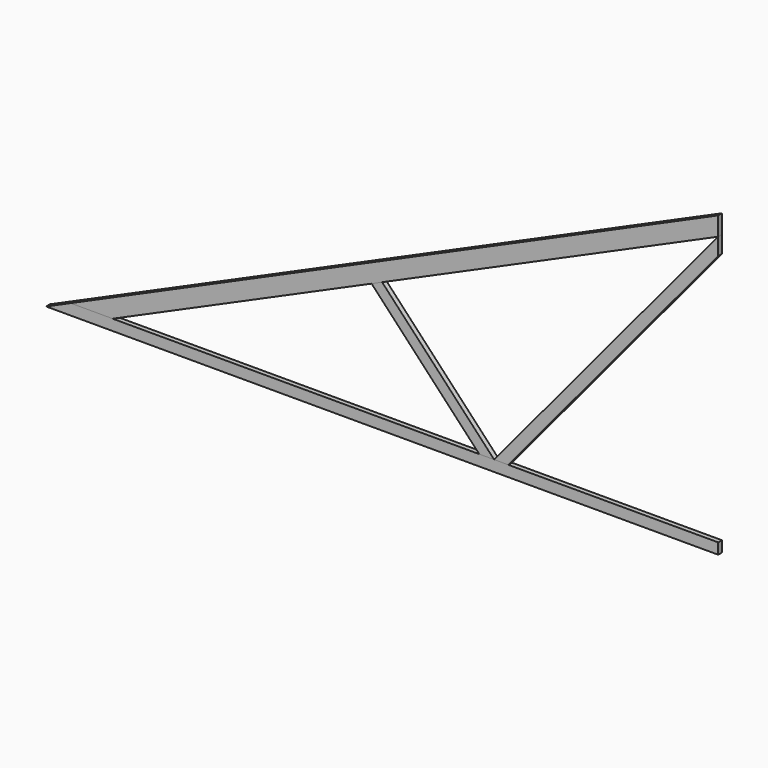
from build123d import *

# Parameters (mm, degrees)
F1_DEPTH = 38.1
F2_DEPTH = 38.1
F3_DEPTH = 38.1
F4_DEPTH = 38.1


with BuildPart() as f1:
    # F0 (on Front) → F1 (new body)
    with BuildSketch(Plane.XZ):
        Polygon((0, 0), (-5286.375, -2349.5), (-4942.403641, -2349.5), (-2829.185953, -1410.292138), (-2743.2, -1372.076159), (0, -152.876159), align=None)
    extrude(amount=F1_DEPTH)


with BuildPart() as f2:
    # F0 (on Front) → F2 (new body, through all)
    with BuildSketch(Plane.XZ):
        Polygon((-1950.537783, -2349.5), (-1828.8, -2349.5), (-2743.2, -1372.076159), (-2829.185953, -1410.292138), (-2808.119944, -1432.810095), align=None)
    extrude(amount=F2_DEPTH)


with BuildPart() as f3:
    # F0 (on Front) → F3 (new body, through all)
    with BuildSketch(Plane.XZ):
        Polygon((-1828.8, -2349.5), (-1713.122682, -2349.5), (0, -291.819486), (0, -152.876159), align=None)
    extrude(amount=F3_DEPTH)


with BuildPart() as f4:
    # F0 (on Front) → F4 (new body, through all)
    with BuildSketch(Plane.XZ):
        Polygon((-5486.4, -2438.4), (0, -2438.4), (0, -2349.5), (-1713.122682, -2349.5), (-1828.8, -2349.5), (-1950.537783, -2349.5), (-4942.403641, -2349.5), (-5286.375, -2349.5), align=None)
    extrude(amount=F4_DEPTH)


solid = Compound([f1.part, f2.part, f3.part, f4.part])
